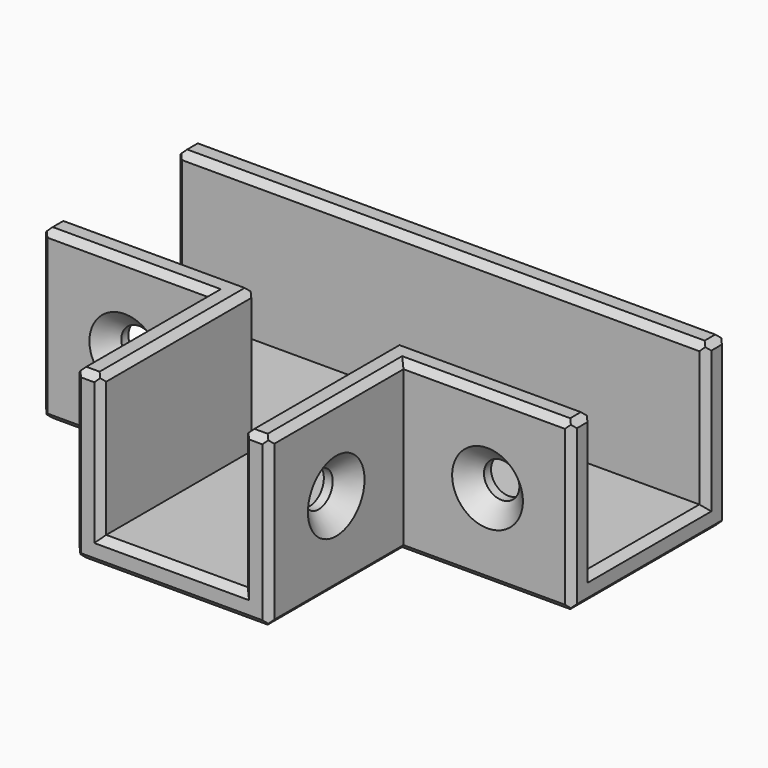
from build123d import *

# Parameters (mm, degrees)
F0_W           = 22
F0_H           = 19
F1_DEPTH       = 3
F2_W           = 60
F2_H           = 3
F2_W_2         = 3
F2_H_2         = 19
F3_DEPTH       = 16
F5_D           = 4
F5_DEPTH       = 12
F5_CSINK_D     = 8
F5_CSINK_ANGLE = 90
F5_TIP         = 1.2017212381
F7_D           = 4
F7_DEPTH       = 12
F7_CSINK_D     = 8
F7_CSINK_ANGLE = 90
F7_TIP         = 1.2017212381
F9_D           = 4
F9_DEPTH       = 12
F9_CSINK_D     = 8
F9_CSINK_ANGLE = 90
F9_TIP         = 1.2017212381
F10_SIZE       = 0.75
F11_SIZE       = 0.75
F12_SIZE       = 0.75
F13_SIZE       = 0.75


with BuildPart() as f1:
    # F0 (on Top) → F1 (new body)
    with BuildSketch(Plane.XY):
        Polygon((0, 22), (0, 0), (19, 0), (41, 0), (60, 0), (60, 22), align=None)
        with Locations((30, -9.5)):
            Rectangle(F0_W, F0_H)
    extrude(amount=F1_DEPTH)

    # F2 (on face) → F3 (join)
    with BuildSketch(Plane.XY.offset(3)):
        with Locations((30, 20.5)):
            Rectangle(F2_W, F2_H)
        Polygon((0, 0), (19, 0), (22, 0), (22, 3), (0, 3), align=None)
        with Locations((20.5, -9.5)):
            Rectangle(F2_W_2, F2_H_2)
        with Locations((39.5, -9.5)):
            Rectangle(F2_W_2, F2_H_2)
        Polygon((38, 0), (41, 0), (60, 0), (60, 3), (38, 3), align=None)
    extrude(amount=F3_DEPTH)

    # F5
    with Locations(Plane.XZ):
        with Locations((50.5, 9.5)):
            CounterSinkHole(F5_D / 2, F5_CSINK_D / 2, depth=F5_DEPTH, counter_sink_angle=F5_CSINK_ANGLE)
            with Locations((0, 0, -(F5_DEPTH + F5_TIP / 2))):  # 118° drill point
                Cone(0, F5_D / 2, F5_TIP, mode=Mode.SUBTRACT)

    # F7
    with Locations(Plane.YZ.offset(41)):
        with Locations((-9.5, 9.5)):
            CounterSinkHole(F7_D / 2, F7_CSINK_D / 2, depth=F7_DEPTH, counter_sink_angle=F7_CSINK_ANGLE)
            with Locations((0, 0, -(F7_DEPTH + F7_TIP / 2))):  # 118° drill point
                Cone(0, F7_D / 2, F7_TIP, mode=Mode.SUBTRACT)

    # F9
    with Locations(Plane.XZ):
        with Locations((9.5, 9.5)):
            CounterSinkHole(F9_D / 2, F9_CSINK_D / 2, depth=F9_DEPTH, counter_sink_angle=F9_CSINK_ANGLE)
            with Locations((0, 0, -(F9_DEPTH + F9_TIP / 2))):  # 118° drill point
                Cone(0, F9_D / 2, F9_TIP, mode=Mode.SUBTRACT)

    # F10
    f10_edges = [f1.edges().sort_by_distance(p)[0] for p in [
        (60, 0, 9.5),
        (60, 1.5, 19),
        (60, 3, 11),
        (60, 11, 3),
        (60, 19, 11),
        (60, 20.5, 19),
        (60, 22, 9.5),
        (60, 11, 0),
        (19, -19, 9.5),
        (20.5, -19, 19),
        (22, -19, 11),
        (30, -19, 3),
        (38, -19, 11),
        (39.5, -19, 19),
        (41, -19, 9.5),
        (30, -19, 0),
        (0, 22, 9.5),
        (0, 20.5, 19),
        (0, 19, 11),
        (0, 11, 3),
        (0, 3, 11),
        (0, 1.5, 19),
        (0, 0, 9.5),
        (0, 11, 0),
    ]]
    chamfer(f10_edges, length=F10_SIZE)

    # F11
    f11_edges = [f1.edges().sort_by_distance(p)[0] for p in [
        (38, 3, 11),
        (22, 3, 11),
    ]]
    chamfer(f11_edges, length=F11_SIZE)

    # F12 (call 1 of 8: OpenCascade refuses the feature's edges together)
    f12_edges = [f1.edges().sort_by_distance(p)[0] for p in [
        (30, 22, 19),
    ]]
    chamfer(f12_edges, length=F12_SIZE)

    # F12#2 (call 2 of 8)
    f12_2_edges = [f1.edges().sort_by_distance(p)[0] for p in [
        (30, 19, 19),
    ]]
    chamfer(f12_2_edges, length=F12_SIZE)

    # F12#3 (call 3 of 8)
    f12_3_edges = [f1.edges().sort_by_distance(p)[0] for p in [
        (49, 3, 19),
    ]]
    chamfer(f12_3_edges, length=F12_SIZE)

    # F12#4 (call 4 of 8)
    f12_4_edges = [f1.edges().sort_by_distance(p)[0] for p in [
        (50.125, 0, 19),
        (41, -9.125, 19),
    ]]
    chamfer(f12_4_edges, length=F12_SIZE)

    # F12#5 (call 5 of 8)
    f12_5_edges = [f1.edges().sort_by_distance(p)[0] for p in [
        (38, -8, 19),
    ]]
    chamfer(f12_5_edges, length=F12_SIZE)

    # F12#6 (call 6 of 8)
    f12_6_edges = [f1.edges().sort_by_distance(p)[0] for p in [
        (22, -8, 19),
    ]]
    chamfer(f12_6_edges, length=F12_SIZE)

    # F12#7 (call 7 of 8)
    f12_7_edges = [f1.edges().sort_by_distance(p)[0] for p in [
        (19, -9.125, 19),
        (9.875, 0, 19),
    ]]
    chamfer(f12_7_edges, length=F12_SIZE)

    # F12#8 (call 8 of 8)
    f12_8_edges = [f1.edges().sort_by_distance(p)[0] for p in [
        (11, 3, 19),
    ]]
    chamfer(f12_8_edges, length=F12_SIZE)

    # F13
    f13_edges = [f1.edges().sort_by_distance(p)[0] for p in [
        (9.875, 0, 0),
        (19, -9.125, 0),
        (41, -9.125, 0),
        (50.125, 0, 0),
        (30, 22, 0),
    ]]
    chamfer(f13_edges, length=F13_SIZE)


solid = f1.part
